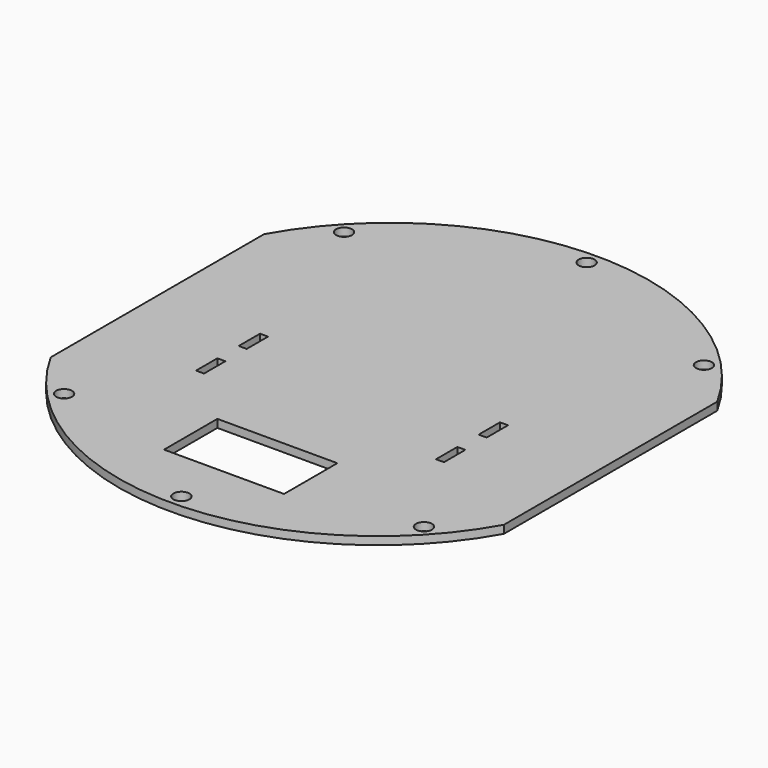
from build123d import *

# Parameters (mm, degrees)
F0_R     = 1.5
F0_W     = 1.5
F0_H     = 5
F0_W_2   = 22.5
F0_H_2   = 12.5
F1_DEPTH = 1.5


with BuildPart() as f1:
    # F0 (on Top) → F1 (new body)
    with BuildSketch(Plane.XY):
        with BuildLine():
            Line((42.5, -25), (42.5, 25))
            ThreePointArc((42.5, 25), (0, 50), (-42.5, 25))
            Line((-42.5, 25), (-42.5, -25))
            ThreePointArc((-42.5, -25), (0, -50), (42.5, -25))
        make_face()
        with Locations((-33.75, -32.814674)):
            Circle(F0_R, mode=Mode.SUBTRACT)
        with Locations((-22.5, -12.5)):
            Rectangle(F0_W, F0_H, mode=Mode.SUBTRACT)
        with Locations((-22.5, -2.5)):
            Rectangle(F0_W, F0_H, mode=Mode.SUBTRACT)
        with Locations((0, -47.5)):
            Circle(F0_R, mode=Mode.SUBTRACT)
        with Locations((0, -31.25)):
            Rectangle(F0_W_2, F0_H_2, mode=Mode.SUBTRACT)
        with Locations((33.75, -32.814674)):
            Circle(F0_R, mode=Mode.SUBTRACT)
        with Locations((22.5, -12.5)):
            Rectangle(F0_W, F0_H, mode=Mode.SUBTRACT)
        with Locations((22.5, -2.5)):
            Rectangle(F0_W, F0_H, mode=Mode.SUBTRACT)
        with Locations((-33.75, 32.814674)):
            Circle(F0_R, mode=Mode.SUBTRACT)
        with Locations((0, 47.5)):
            Circle(F0_R, mode=Mode.SUBTRACT)
        with Locations((33.75, 32.814674)):
            Circle(F0_R, mode=Mode.SUBTRACT)
    extrude(amount=F1_DEPTH)


solid = f1.part
